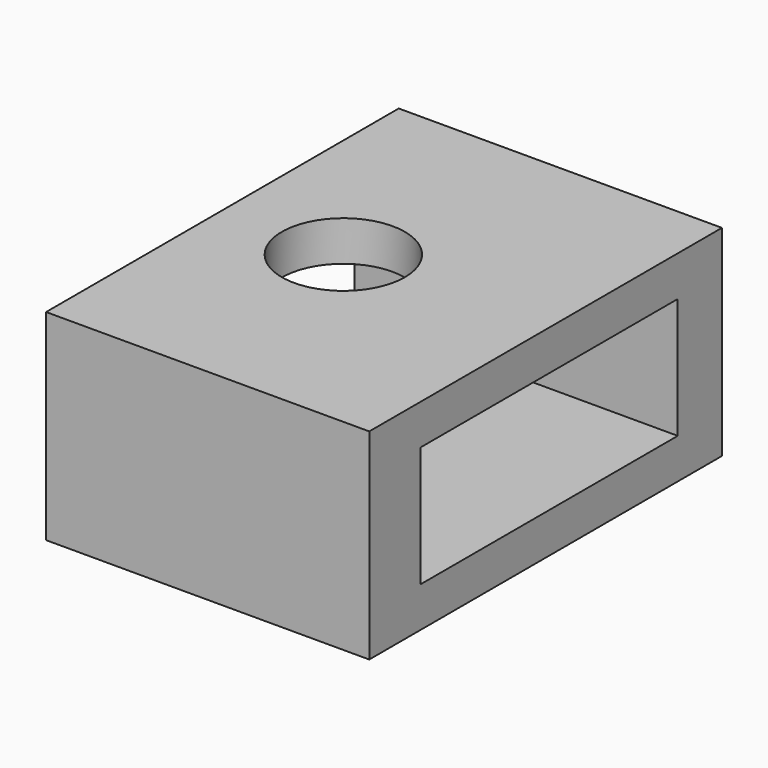
from build123d import *

# Parameters (mm, degrees)
BOX002_W     = 9.5
BOX002_H     = 8
BOX002_DEPTH = 3
SKETCH008_W  = 8.045495
SKETCH008_H  = 10.974572
SKETCH008_R  = 1.530969
PAD008_DEPTH = 5


with BuildPart() as body046:
    # Box002 → Box002 (new body)
    with BuildSketch(Plane.XY):
        with Locations((4.75, 4)):
            Rectangle(BOX002_W, BOX002_H)
    extrude(amount=BOX002_DEPTH)


with BuildPart() as body046_1:
    # Body046 placement: moved
    add(body046.part.moved(Location((-4, -3.9, 1))))


with BuildPart() as cut006:
    # Sketch008 → Pad008 (new body)
    with BuildSketch(Plane.XY):
        with Locations((1.022447, -0.012719)):
            Rectangle(SKETCH008_W, SKETCH008_H)
        Circle(SKETCH008_R, mode=Mode.SUBTRACT)
    extrude(amount=PAD008_DEPTH)

    # Cut006: cut Body046
    add(body046_1.part, mode=Mode.SUBTRACT)


with BuildPart() as cut006_1:
    # Cut006 placement: moved
    add(cut006.part.moved(Location((0, 0.025, 0))))


solid = cut006_1.part
